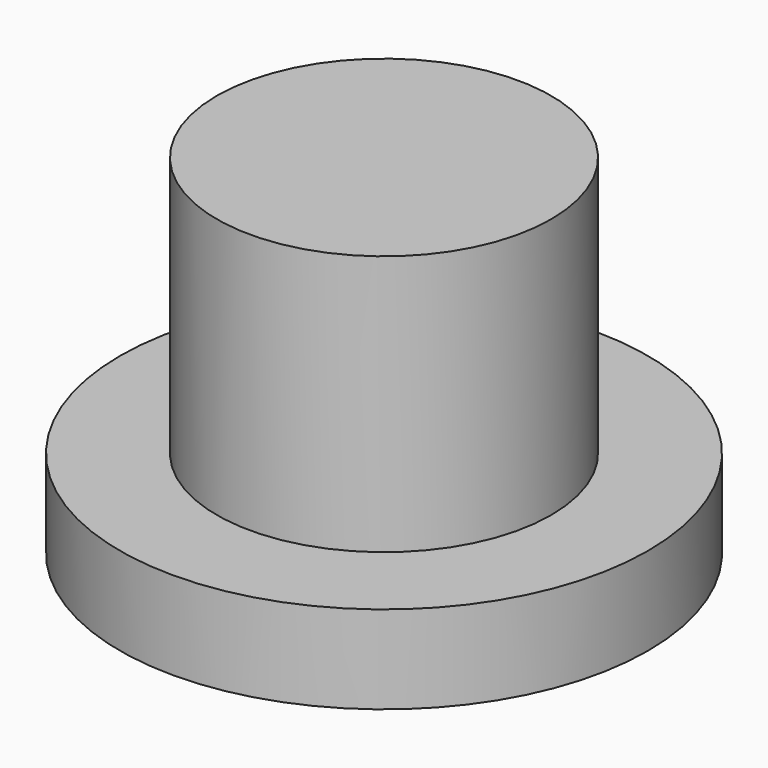
from build123d import *

# Parameters (mm, degrees)
F0_R     = 9.525
F1_DEPTH = 3.175
F2_R     = 6.0325
F3_DEPTH = 9.398
F4_W     = 4.826
F4_H     = 4.826
F5_DEPTH = 11.938


with BuildPart() as f1:
    # F0 (on Top) → F1 (new body)
    with BuildSketch(Plane.XY):
        Circle(F0_R)
    extrude(amount=F1_DEPTH)

    # F2 (on face) → F3 (join)
    with BuildSketch(Plane.XY.offset(3.175)):
        Circle(F2_R)
    extrude(amount=F3_DEPTH)

    # F4 (on face) → F5 (cut)
    with BuildSketch(Plane(origin=(0, 0, 0), x_dir=(1, 0, 0), z_dir=(0, 0, -1))):
        with Locations((0.071996, 0)):
            Rectangle(F4_W, F4_H)
    extrude(amount=-F5_DEPTH, mode=Mode.SUBTRACT)


solid = f1.part
